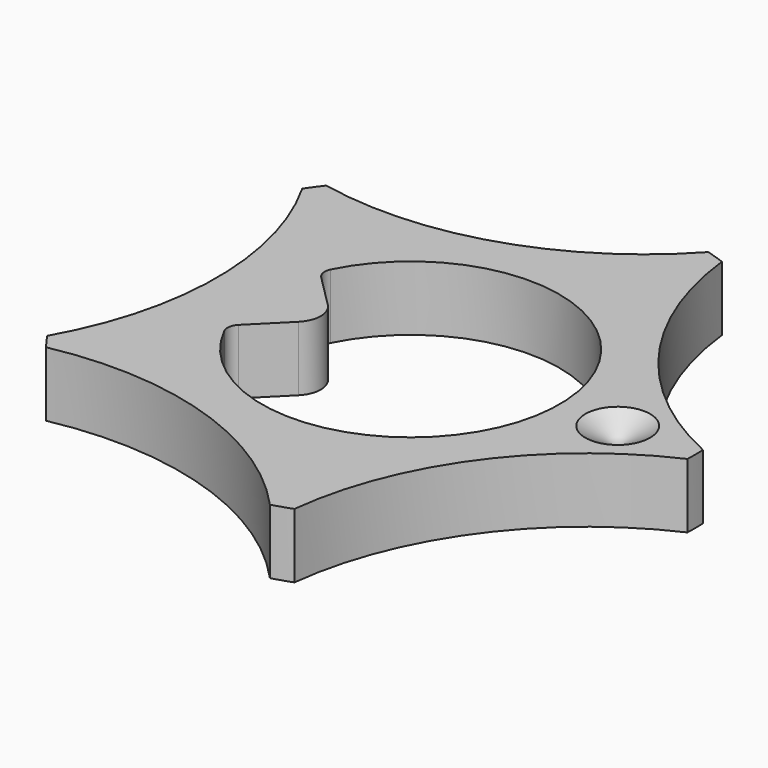
from build123d import *

# Parameters (mm, degrees)
F1_DEPTH = 0.5


with BuildPart() as f1:
    # F0 (on Top) → F1 (new body)
    with BuildSketch(Plane.XY):
        with BuildLine():
            ThreePointArc((0.608123, 2.114281), (-0.463032, 1.425065), (-1.734726, 1.353044))
            ThreePointArc((-1.734726, 1.353044), (-1.779837, 1.293128), (-1.822881, 1.231709))
            ThreePointArc((-1.822881, 1.231709), (-1.498402, 0), (-1.822881, -1.231709))
            ThreePointArc((-1.822881, -1.231709), (-1.779837, -1.293128), (-1.734726, -1.353044))
            ThreePointArc((-1.734726, -1.353044), (-0.464683, -1.426376), (0.604837, -2.115224))
            ThreePointArc((0.604837, -2.115224), (0.680275, -2.092182), (0.754837, -2.066451))
            ThreePointArc((0.754837, -2.066451), (1.214909, -0.880859), (2.198721, -0.075))
            ThreePointArc((2.198721, -0.075), (2.2, 0), (2.198721, 0.075))
            ThreePointArc((2.198721, 0.075), (1.212235, 0.880745), (0.750761, 2.067936))
            ThreePointArc((0.750761, 2.067936), (0.679837, 2.092324), (0.608123, 2.114281))
        make_face()
        with BuildLine():
            ThreePointArc((-1.028958, 0.513562), (1.15, 0), (-1.028958, -0.513562))
            ThreePointArc((-1.028958, -0.513562), (-1.038186, -0.452851), (-1.010194, -0.398194))
            Line((-1.010194, -0.398194), (-0.753421, -0.141421))
            ThreePointArc((-0.753421, -0.141421), (-0.694843, 0), (-0.753421, 0.141421))
            Line((-0.753421, 0.141421), (-1.010194, 0.398194))
            ThreePointArc((-1.010194, 0.398194), (-1.038186, 0.452851), (-1.028958, 0.513562))
        make_face(mode=Mode.SUBTRACT)
    extrude(amount=F1_DEPTH)

    # F2 (on Front) → F3 (revolve, cut)
    with BuildSketch(Plane.XZ):
        Polygon((1.85, 0.5), (1.6, 0.5), (1.6, 0.355662), align=None)
    revolve(axis=Axis((1.6, 0, 0.427831), (0, 0, -1)), mode=Mode.SUBTRACT)


solid = f1.part
